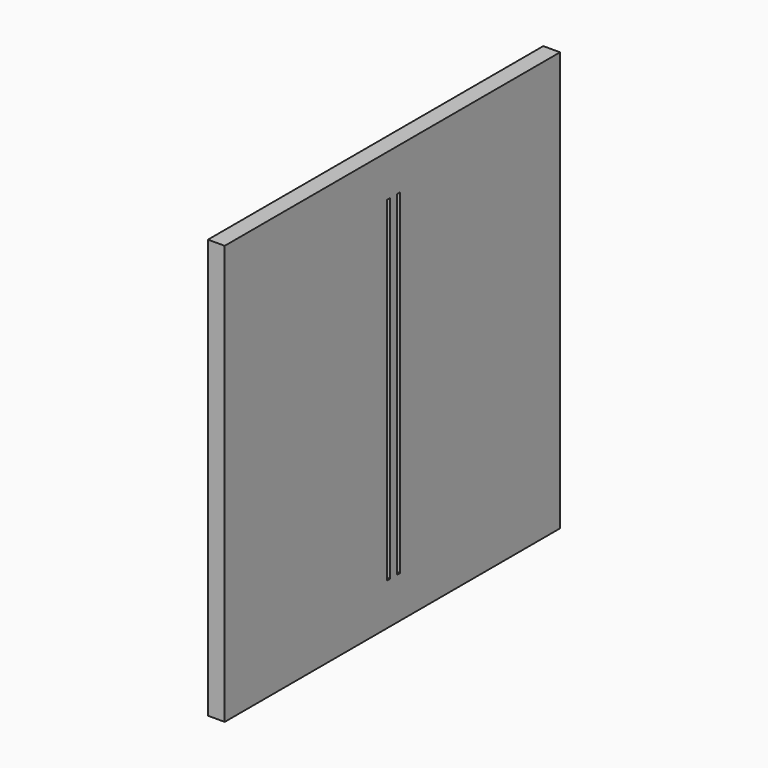
from build123d import *

# Parameters (mm, degrees)
F0_W     = 50
F0_H     = 50
F1_DEPTH = 2
F2_W     = 0.5
F2_H     = 40
F3_DEPTH = 2.001


with BuildPart() as f1:
    # F0 (on Right) → F1 (new body)
    with BuildSketch(Plane.YZ):
        Rectangle(F0_W, F0_H)
    extrude(amount=F1_DEPTH)

    # F2 (on face) → F3 (cut, through all)
    with BuildSketch(Plane.YZ.offset(2)):
        with Locations((-0.577986, 0)):
            Rectangle(F2_W, F2_H)
        with Locations((0.922014, 0)):
            Rectangle(F2_W, F2_H)
    extrude(amount=-F3_DEPTH, mode=Mode.SUBTRACT)


solid = f1.part
